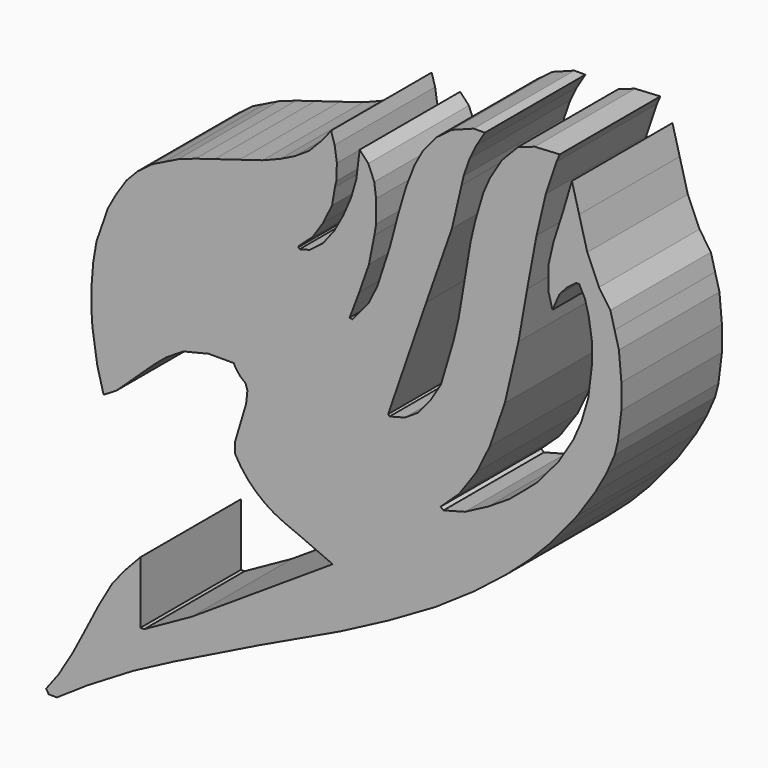
from build123d import *

# Parameters (mm, degrees)
F1_DEPTH = 25.4


with BuildPart() as f1:
    # F0 (on Front) → F1 (new body)
    with BuildSketch(Plane.XZ):
        with BuildLine():
            Line((131.856531, -39.270367), (131.093979, -39.270367))
            Line((131.093979, -39.270367), (131.093979, -26.708364))
            Line((131.093979, -26.708364), (127.770975, -30.269573))
            Line((127.770975, -30.269573), (125.320897, -33.384085))
            Line((125.320897, -33.384085), (122.7047, -37.952036))
            Line((122.7047, -37.952036), (119.714767, -43.765791))
            Line((119.714767, -43.765791), (117.389262, -48.209161))
            Line((117.389262, -48.209161), (114.523917, -52.984744))
            Line((114.523917, -52.984744), (112.032302, -56.306891))
            Line((112.032302, -56.306891), (112.572156, -57.137426))
            Line((112.572156, -57.137426), (114.233226, -57.137426))
            Line((114.233226, -57.137426), (120.462254, -52.943218))
            Line((120.462254, -52.943218), (129.6812, -47.378622))
            Line((129.6812, -47.378622), (137.986571, -43.018308))
            Line((137.986571, -43.018308), (155.054107, -34.588359))
            Line((155.054107, -34.588359), (171.623304, -26.708364))
            Line((171.623304, -26.708364), (181.396949, -21.577207))
            Line((181.396949, -21.577207), (190.767169, -16.150445))
            Line((190.767169, -16.150445), (198.615745, -10.793484))
            Line((198.615745, -10.793484), (204.969332, -5.810264))
            Line((204.969332, -5.810264), (209.744915, -1.574528))
            Line((209.744915, -1.574528), (213.399276, 2.162886))
            Line((213.399276, 2.162886), (217.468902, 6.979999))
            Line((217.468902, 6.979999), (219.420671, 9.430082))
            Line((219.420671, 9.430082), (223.033503, 14.787043))
            Line((223.033503, 14.787043), (225.275964, 18.815145))
            Line((225.275964, 18.815145), (226.937026, 22.635613))
            Line((226.937026, 22.635613), (227.601469, 25.251804))
            Line((227.601469, 25.251804), (228.307411, 31.024033))
            Line((228.307411, 31.024033), (228.307411, 36.007252))
            Line((228.307411, 36.007252), (227.809101, 41.613374))
            Line((227.809101, 41.613374), (226.937026, 44.893991))
            Line((226.937026, 44.893991), (226.076809, 48.129997))
            Line((226.076809, 48.129997), (223.785281, 51.461309))
            Line((223.785281, 51.461309), (221.41622, 56.910176))
            Line((221.41622, 56.910176), (219.771945, 63.095692))
            Line((219.771945, 63.095692), (218.310687, 68.592726))
            Line((218.310687, 68.592726), (216.491863, 62.491246))
            Line((216.491863, 62.491246), (214.596599, 56.568567))
            Line((214.596599, 56.568567), (213.601604, 52.25686))
            Line((213.601604, 52.25686), (213.601604, 47.281809))
            Line((213.601604, 47.281809), (214.374004, 44.376155))
            Line((214.374004, 44.376155), (215.776193, 47.60121))
            Line((215.776193, 47.60121), (217.24996, 49.271829))
            Line((217.24996, 49.271829), (219.145223, 50.740656))
            Line((219.145223, 50.740656), (219.771945, 50.740656))
            Line((219.771945, 50.740656), (220.940132, 48.515535))
            Line((220.940132, 48.515535), (221.702331, 45.648258))
            Line((221.702331, 45.648258), (222.319782, 41.613374))
            Line((222.319782, 41.613374), (222.319782, 40.411506))
            Line((222.319782, 40.411506), (222.319782, 36.857899))
            Line((222.319782, 36.857899), (221.606301, 31.024033))
            Line((221.606301, 31.024033), (220.23499, 26.386606))
            Line((220.23499, 26.386606), (218.604134, 22.635613))
            Line((218.604134, 22.635613), (215.686381, 17.905332))
            Line((215.686381, 17.905332), (211.516812, 12.8829))
            Line((211.516812, 12.8829), (208.863452, 10.561211))
            Line((208.863452, 10.561211), (205.641508, 7.86047))
            Line((205.641508, 7.86047), (201.377183, 5.159729))
            Line((201.377183, 5.159729), (196.691502, 2.69975))
            Line((196.691502, 2.69975), (192.336394, 1.542046))
            Line((192.336394, 1.542046), (191.769518, 2.01266))
            Line((191.769518, 2.01266), (195.542768, 5.545795))
            Line((195.542768, 5.545795), (199.051782, 10.561211))
            Line((199.051782, 10.561211), (201.72669, 16.015299))
            Line((201.72669, 16.015299), (204.746738, 24.672773))
            Line((204.746738, 24.672773), (207.507923, 36.494106))
            Line((207.507923, 36.494106), (209.262431, 46.445884))
            Line((209.262431, 46.445884), (211.160749, 56.570239))
            Line((211.160749, 56.570239), (213.028509, 64.566593))
            Line((213.028509, 64.566593), (215.18749, 70.980191))
            Line((215.18749, 70.980191), (215.861963, 72.531489))
            Line((215.861963, 72.531489), (210.786849, 72.245732))
            Line((210.786849, 72.245732), (207.42166, 71.095236))
            Line((207.42166, 71.095236), (204.142749, 67.672513))
            Line((204.142749, 67.672513), (201.72669, 63.703306))
            Line((201.72669, 63.703306), (200.401526, 60.65541))
            Line((200.401526, 60.65541), (198.767933, 55.13101))
            Line((198.767933, 55.13101), (197.855029, 51.222639))
            Line((197.855029, 51.222639), (196.894616, 45.525488))
            Line((196.894616, 45.525488), (196.06302, 40.592481))
            Line((196.06302, 40.592481), (195.419164, 36.773144))
            Line((195.419164, 36.773144), (194.391324, 32.3727))
            Line((194.391324, 32.3727), (193.048336, 27.831053))
            Line((193.048336, 27.831053), (191.840031, 23.744869))
            Line((191.840031, 23.744869), (189.654089, 20.153708))
            Line((189.654089, 20.153708), (187.281583, 17.295919))
            Line((187.281583, 17.295919), (184.555545, 15.526338))
            Line((184.555545, 15.526338), (181.454284, 14.70194))
            Line((181.454284, 14.70194), (181.160883, 15.015279))
            Line((181.160883, 15.015279), (188.854843, 37.383448))
            Line((188.854843, 37.383448), (194.060534, 52.25686))
            Line((194.060534, 52.25686), (196.007885, 60.593964))
            Line((196.007885, 60.593964), (196.43565, 62.425332))
            Line((196.43565, 62.425332), (197.653917, 65.906096))
            Line((197.653917, 65.906096), (199.019222, 68.689928))
            Line((199.019222, 68.689928), (200.705565, 71.460327))
            Line((200.705565, 71.460327), (198.478773, 71.460327))
            Line((198.478773, 71.460327), (194.060534, 69.801122))
            Line((194.060534, 69.801122), (190.836385, 67.384303))
            Line((190.836385, 67.384303), (188.249418, 64.268186))
            Line((188.249418, 64.268186), (186.525285, 61.129946))
            Line((186.525285, 61.129946), (184.810638, 56.70454))
            Line((184.810638, 56.70454), (183.189612, 51.222639))
            Line((183.189612, 51.222639), (181.528315, 44.893991))
            Line((181.528315, 44.893991), (179.013506, 37.141323))
            Line((179.013506, 37.141323), (177.190212, 33.423661))
            Line((177.190212, 33.423661), (173.966472, 29.540522))
            Line((173.966472, 29.540522), (173.375787, 29.640098))
            Line((173.375787, 29.640098), (175.32295, 34.806151))
            Line((175.32295, 34.806151), (177.293001, 40.434871))
            Line((177.293001, 40.434871), (178.376704, 45.918141))
            Line((178.376704, 45.918141), (178.737134, 48.056202))
            Line((178.737134, 48.056202), (178.737134, 52.577935))
            Line((178.737134, 52.577935), (178.355023, 55.441424))
            Line((178.355023, 55.441424), (177.161902, 58.326609))
            Line((177.161902, 58.326609), (175.407464, 60.20028))
            Line((175.407464, 60.20028), (174.735905, 54.709187))
            Line((174.735905, 54.709187), (173.627758, 50.961714))
            Line((173.627758, 50.961714), (172.077771, 47.396722))
            Line((172.077771, 47.396722), (170.269163, 44.104722))
            Line((170.269163, 44.104722), (167.964011, 41.102268))
            Line((167.964011, 41.102268), (165.27354, 39.085493))
            Line((165.27354, 39.085493), (163.256178, 38.549224))
            Line((163.256178, 38.549224), (163.043007, 38.833605))
            Line((163.043007, 38.833605), (163.178645, 39.145576))
            Line((163.178645, 39.145576), (165.909588, 41.613374))
            Line((165.909588, 41.613374), (167.998061, 44.757012))
            Line((167.998061, 44.757012), (169.841394, 48.515535))
            Line((169.841394, 48.515535), (170.419303, 51.943676))
            Line((170.419303, 51.943676), (170.687624, 53.092429))
            Line((170.687624, 53.092429), (170.804754, 56.338407))
            Line((170.804754, 56.338407), (170.346335, 59.39405))
            Line((170.346335, 59.39405), (169.6354, 61.733939))
            Line((169.6354, 61.733939), (167.998061, 59.609607))
            Line((167.998061, 59.609607), (165.183091, 56.671175))
            Line((165.183091, 56.671175), (162.288606, 54.796524))
            Line((162.288606, 54.796524), (159.404872, 53.372199))
            Line((159.404872, 53.372199), (155.785322, 51.945195))
            Line((155.785322, 51.945195), (151.122708, 50.52854))
            Line((151.122708, 50.52854), (146.114796, 49.006973))
            Line((146.114796, 49.006973), (142.258548, 47.83532))
            Line((142.258548, 47.83532), (138.733596, 46.585493))
            Line((138.733596, 46.585493), (135.953942, 45.212574))
            Line((135.953942, 45.212574), (133.524897, 44.012828))
            Line((133.524897, 44.012828), (130.524009, 41.763365))
            Line((130.524009, 41.763365), (128.270215, 39.41072))
            Line((128.270215, 39.41072), (126.116261, 36.127914))
            Line((126.116261, 36.127914), (124.501735, 33.18918))
            Line((124.501735, 33.18918), (123.440266, 30.103237))
            Line((123.440266, 30.103237), (122.231268, 26.648955))
            Line((122.231268, 26.648955), (121.554707, 22.635613))
            Line((121.554707, 22.635613), (121.182621, 17.815301))
            Line((121.182621, 17.815301), (121.182621, 14.33507))
            Line((121.182621, 14.33507), (121.401586, 11.10149))
            Line((121.401586, 11.10149), (121.961843, 7.367037))
            Line((121.961843, 7.367037), (122.379806, 4.58106))
            Line((122.379806, 4.58106), (123.657151, -0.224122))
            Line((123.657151, -0.224122), (126.265943, 1.36892))
            Line((126.265943, 1.36892), (130.72668, 5.545795))
            Line((130.72668, 5.545795), (133.810055, 8.432957))
            Line((133.810055, 8.432957), (136.317104, 10.561211))
            Line((136.317104, 10.561211), (139.807895, 12.734579))
            Line((139.807895, 12.734579), (144.873038, 13.968211))
            Line((144.873038, 13.968211), (149.967209, 13.968211))
            Line((149.967209, 13.968211), (150.353323, 13.232753))
            Line((150.353323, 13.232753), (151.206208, 12.094966))
            Line((151.206208, 12.094966), (152.368484, 11.130056))
            Line((152.368484, 11.130056), (152.717152, 9.982493))
            Line((152.717152, 9.982493), (152.466848, 7.537891))
            Line((152.466848, 7.537891), (150.204286, 0))
            Line((150.204286, 0), (150.204286, -2.050746))
            ThreePointArc((150.204286, -2.050746), (154.416105, -7.43131), (160.180092, -11.100963))
            Line((160.180092, -11.100963), (163.368225, -12.437927))
            Line((163.368225, -12.437927), (169.95585, -15.31557))
            Line((169.95585, -15.31557), (141.462594, -33.93219))
            Line((141.462594, -33.93219), (131.856531, -39.270367))
        make_face()
    extrude(amount=F1_DEPTH)


solid = f1.part
